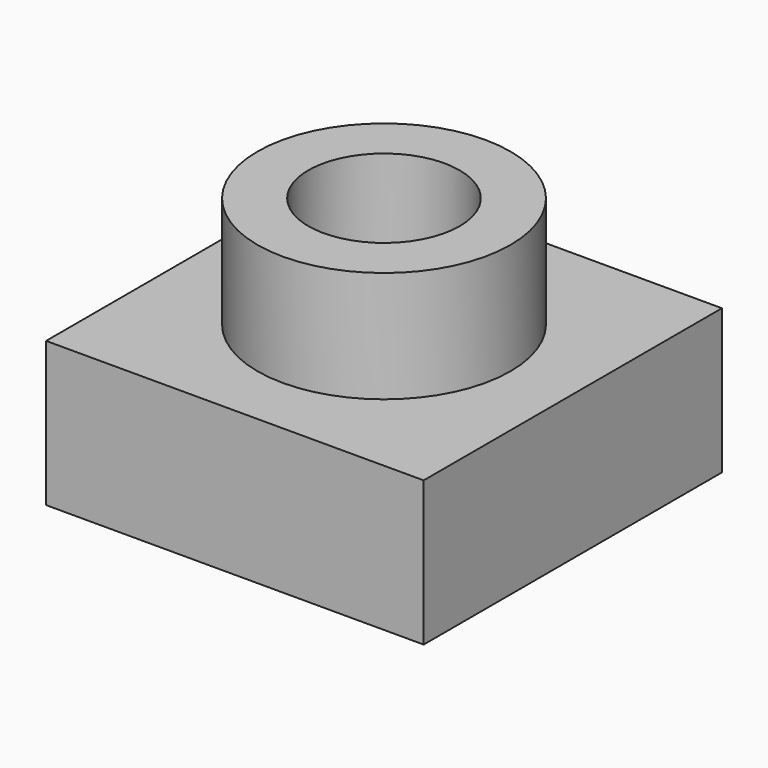
from build123d import *

# Parameters (mm, degrees)
F0_W      = 86.230226
F0_H      = 85.144274
F1_DEPTH  = 33.02
F2_R      = 28.889637
F2_R_2    = 17.278363
F3_DEPTH  = 25.4
F3_FACE_R = 17.278363
F4_DEPTH  = 127


with BuildPart() as f1:
    # F0 (on Top) → F1 (new body)
    with BuildSketch(Plane.XY):
        Rectangle(F0_W, F0_H)
    extrude(amount=F1_DEPTH)

    # F2 (on face) → F3 (join)
    with BuildSketch(Plane.XY.offset(33.02)):
        Circle(F2_R)
        Circle(F2_R_2, mode=Mode.SUBTRACT)
    extrude(amount=F3_DEPTH)

    # F3_face (on face) → F4 (cut)
    with BuildSketch(Plane.XY.offset(33.02)):
        Circle(F3_FACE_R)
    extrude(amount=-F4_DEPTH, mode=Mode.SUBTRACT)


solid = f1.part
